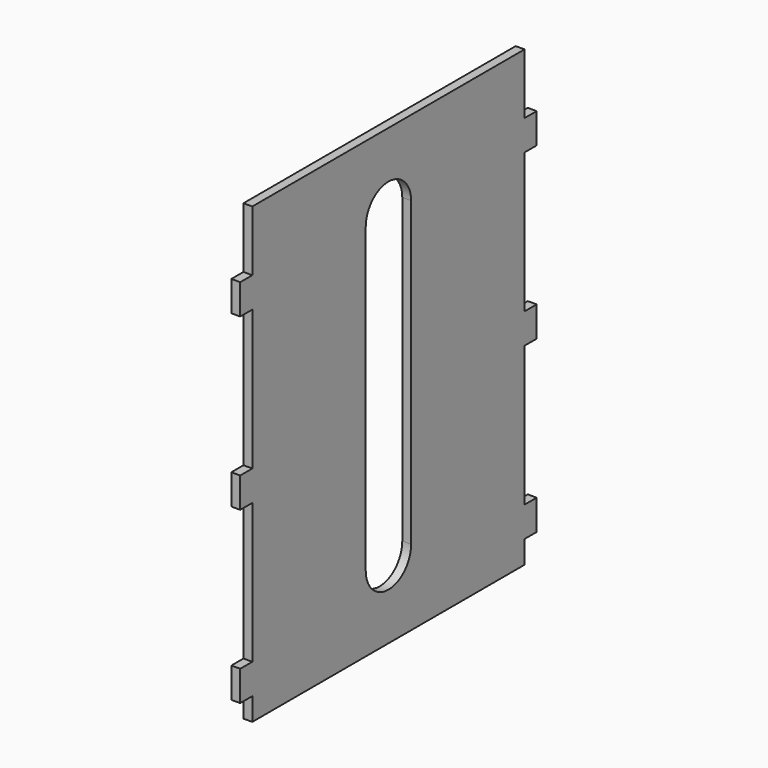
from build123d import *

# Parameters (mm, degrees)
F0_W     = 76.2
F0_H     = 132.08
F0_W_2   = 5.08
F0_H_2   = 10.16
F1_DEPTH = 2.9718


with BuildPart() as f1:
    # F0 (on Right) → F1 (new body)
    with BuildSketch(Plane.YZ):
        Polygon((57.15, 55.88), (57.15, 76.2), (-57.15, 76.2), (-57.15, 55.88), (-57.15, 45.72), (-57.15, -1.27), (-57.15, -11.43), (-57.15, -58.42), (-57.15, -68.58), (-57.15, -76.2), (57.15, -76.2), (57.15, -68.58), (57.15, -58.42), (57.15, -11.43), (57.15, -1.27), (57.15, 45.72), align=None)
        Rectangle(F0_W, F0_H, mode=Mode.SUBTRACT)
        with Locations((59.69, 50.8)):
            Rectangle(F0_W_2, F0_H_2)
        with Locations((-59.69, 50.8)):
            Rectangle(F0_W_2, F0_H_2)
        with Locations((59.69, -6.35)):
            Rectangle(F0_W_2, F0_H_2)
        with Locations((-59.69, -6.35)):
            Rectangle(F0_W_2, F0_H_2)
        with Locations((59.69, -63.5)):
            Rectangle(F0_W_2, F0_H_2)
        with Locations((-59.69, -63.5)):
            Rectangle(F0_W_2, F0_H_2)
        Rectangle(F0_W, F0_H)
        with BuildLine():
            Line((-9.525, -50.8), (-9.525, 50.8))
            ThreePointArc((-9.525, 50.8), (0, 60.325), (9.525, 50.8))
            Line((9.525, 50.8), (9.525, -50.8))
            ThreePointArc((9.525, -50.8), (0, -60.325), (-9.525, -50.8))
        make_face(mode=Mode.SUBTRACT)
    extrude(amount=F1_DEPTH)


solid = f1.part
